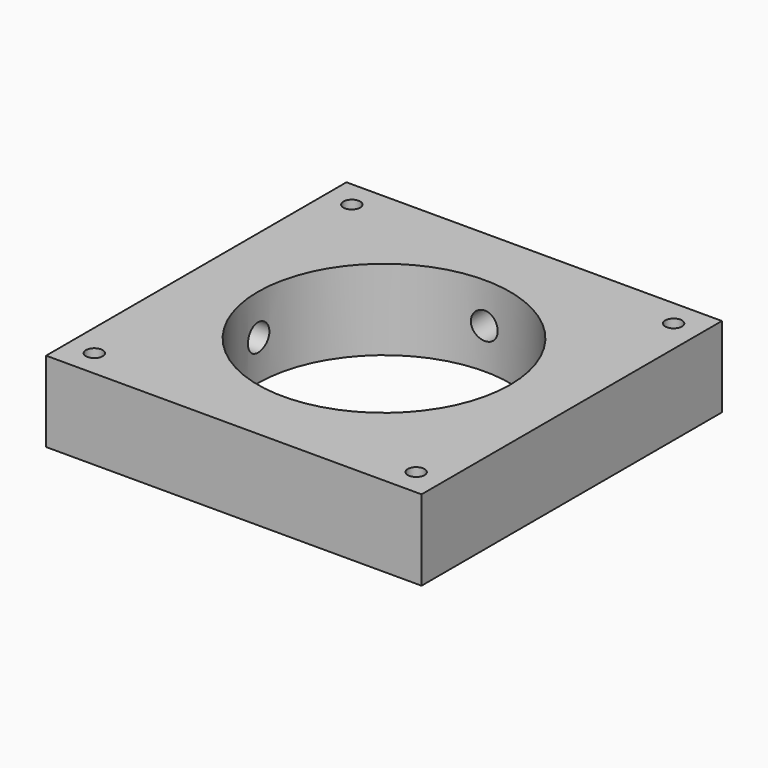
from build123d import *

# Parameters (mm, degrees)
F0_W     = 88.9
F0_H     = 88.9
F0_R     = 1.9812
F0_R_2   = 29.845
F1_DEPTH = 19.05
F2_R     = 3.175
F3_DEPTH = 25.4
F4_R     = 3.175
F5_DEPTH = 25.4


with BuildPart() as f1:
    # F0 (on Top) → F1 (new body)
    with BuildSketch(Plane.XY):
        Rectangle(F0_W, F0_H)
        with Locations((-38.1, -38.1)):
            Circle(F0_R, mode=Mode.SUBTRACT)
        with Locations((38.1, -38.1)):
            Circle(F0_R, mode=Mode.SUBTRACT)
        with Locations((-38.1, 38.1)):
            Circle(F0_R, mode=Mode.SUBTRACT)
        Circle(F0_R_2, mode=Mode.SUBTRACT)
        with Locations((38.1, 38.1)):
            Circle(F0_R, mode=Mode.SUBTRACT)
    extrude(amount=F1_DEPTH)

    # F2 (on face) → F3 (cut)
    with BuildSketch(Plane(origin=(0, 44.45, 0), x_dir=(-1, 0, 0), z_dir=(0, 1, 0))):
        with Locations((0, 9.525)):
            Circle(F2_R)
    extrude(amount=-F3_DEPTH, mode=Mode.SUBTRACT)

    # F4 (on face) → F5 (cut)
    with BuildSketch(Plane(origin=(-44.45, 0, 0), x_dir=(0, -1, 0), z_dir=(-1, 0, 0))):
        with Locations((0, 9.525)):
            Circle(F4_R)
    extrude(amount=-F5_DEPTH, mode=Mode.SUBTRACT)


solid = f1.part
